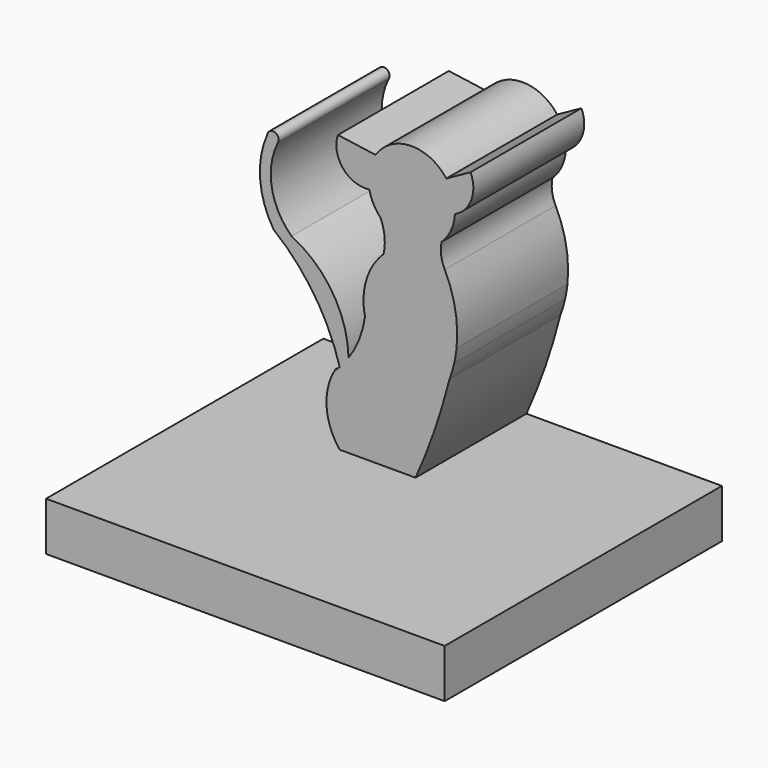
from build123d import *

# Parameters (mm, degrees)
F1_DEPTH = 127
F2_DEPTH = 50.8


with BuildPart() as f1:
    # F0 (on Front) → F1 (new body)
    with BuildSketch(Plane.XZ):
        Polygon((-26.435141, -57.215432), (-73.037098, -57.215432), (-73.037098, -75.057486), (73.037098, -75.057486), (73.037098, -57.215432), (1.397706, -57.215432), align=None)
    extrude(amount=F1_DEPTH)

    # F0 (on Front) → F2 (join)
    with BuildSketch(Plane.XZ):
        with BuildLine():
            ThreePointArc((-28.038343, -31.901021), (-31.207175, -44.80968), (-26.435141, -57.215432))
            Line((-26.435141, -57.215432), (1.397706, -57.215432))
            ThreePointArc((1.397706, -57.215432), (8.385599, -39.591583), (13.815437, -21.427125))
            ThreePointArc((13.815437, -21.427125), (14.783315, -18.607969), (15.555009, -15.728923))
            ThreePointArc((15.555009, -15.728923), (16.072278, -13.136524), (16.430436, -10.517398))
            ThreePointArc((16.430436, -10.517398), (15.978576, 1.750902), (12.102647, 13.399617))
            ThreePointArc((12.102647, 13.399617), (10.780812, 17.568694), (10.917028, 21.940181))
            ThreePointArc((10.917028, 21.940181), (14.382768, 26.766265), (15.82858, 32.529256))
            ThreePointArc((15.82858, 32.529256), (15.174964, 38.029758), (12.669052, 42.96971))
            ThreePointArc((12.669052, 42.96971), (-0.488801, 49.284531), (-13.232451, 42.170782))
            ThreePointArc((-13.232451, 42.170782), (-15.565366, 36.45211), (-15.536207, 30.275958))
            ThreePointArc((-15.536207, 30.275958), (-14.031369, 26.055756), (-11.405967, 22.425065))
            ThreePointArc((-11.405967, 22.425065), (-9.956311, 16.857974), (-10.306361, 11.115896))
            ThreePointArc((-10.306361, 11.115896), (-16.642557, 0.773962), (-17.132959, -11.344721))
            ThreePointArc((-17.132959, -11.344721), (-19.235101, -19.303269), (-23.144801, -26.547005))
            ThreePointArc((-23.144801, -26.547005), (-24.70678, -28.600459), (-26.416359, -30.532761))
            ThreePointArc((-26.416359, -30.532761), (-27.040856, -31.171473), (-27.681515, -31.793972))
            ThreePointArc((-27.681515, -31.793972), (-27.875593, -31.795282), (-28.038343, -31.901021))
        make_face()
        with BuildLine():
            ThreePointArc((12.669052, 42.96971), (15.174964, 38.029758), (15.82858, 32.529256))
            ThreePointArc((15.82858, 32.529256), (21.831874, 39.038084), (21.566212, 47.888722))
            Line((21.566212, 47.888722), (12.669052, 42.96971))
        make_face()
        with BuildLine():
            ThreePointArc((-27.039211, 44.109747), (-25.18838, 33.949385), (-15.536207, 30.275958))
            ThreePointArc((-15.536207, 30.275958), (-15.565366, 36.45211), (-13.232451, 42.170782))
            Line((-13.232451, 42.170782), (-27.039211, 44.109747))
        make_face()
        with BuildLine():
            ThreePointArc((-50.62522, 5.92908), (-35.638015, -10.387821), (-26.416359, -30.532761))
            ThreePointArc((-26.416359, -30.532761), (-24.70678, -28.600459), (-23.144801, -26.547005))
            ThreePointArc((-23.144801, -26.547005), (-29.007683, -7.357016), (-44.044595, 5.92908))
            ThreePointArc((-44.044595, 5.92908), (-51.27709, 19.259676), (-49.117848, 34.271386))
            ThreePointArc((-49.117848, 34.271386), (-50.091291, 37.454091), (-52.961979, 35.769943))
            ThreePointArc((-52.961979, 35.769943), (-55.552639, 20.555151), (-50.62522, 5.92908))
        make_face()
    extrude(amount=F2_DEPTH)


solid = f1.part
